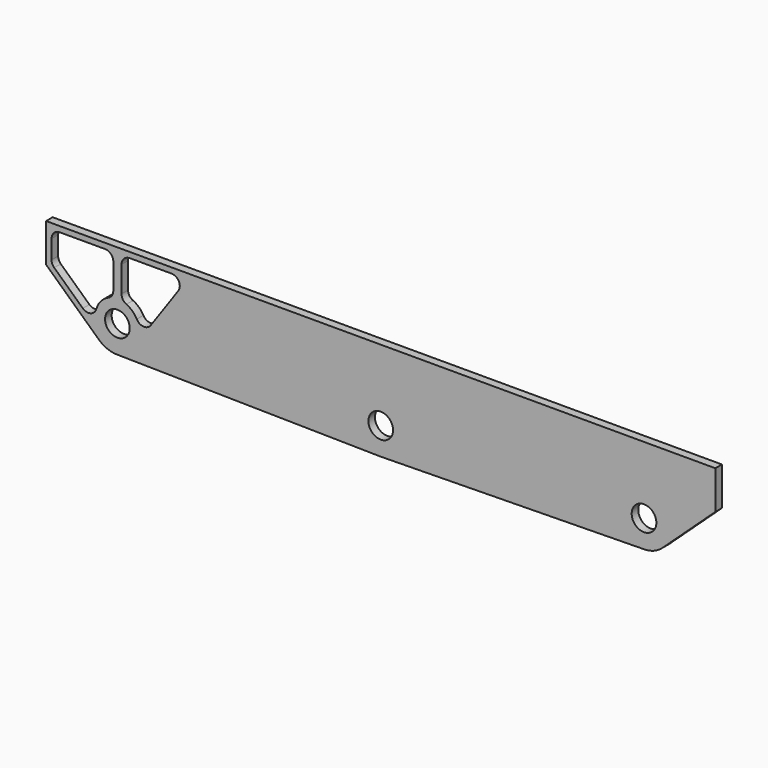
from build123d import *

# Parameters (mm, degrees)
F1_DEPTH = 9.525
F2_R     = 14.2748
F3_DEPTH = 25.4
F4_R     = 9.525


with BuildPart() as f1:
    # F0 (on Front) → F1 (new body)
    with BuildSketch(Plane.XZ):
        with BuildLine():
            Line((387.312791, 82.55), (-387.312791, 82.55))
            Line((-387.312791, 82.55), (-387.312791, 38.1))
            Line((-387.312791, 38.1), (-326.211106, -18.423178))
            ThreePointArc((-326.211106, -18.423178), (-316.509344, -24.556852), (-305.256305, -26.818544))
            Line((-305.256305, -26.818544), (-0.493514, -31.581044))
            ThreePointArc((-0.493514, -31.581044), (0, -31.5849), (0.493514, -31.581044))
            Line((0.493514, -31.581044), (305.256305, -26.818544))
            ThreePointArc((305.256305, -26.818544), (316.509344, -24.556852), (326.211106, -18.423178))
            Line((326.211106, -18.423178), (387.312791, 38.1))
            Line((387.312791, 38.1), (387.312791, 82.55))
        make_face()
    extrude(amount=F1_DEPTH)

    # F2 (on face) → F3 (cut)
    with BuildSketch(Plane.XZ.offset(9.525)):
        with Locations((-304.762791, 4.7625)):
            Circle(F2_R)
        Circle(F2_R)
        with Locations((304.762791, 4.7625)):
            Circle(F2_R)
        with BuildLine():
            Line((-309.525291, 76.2), (-380.962791, 76.2))
            Line((-380.962791, 76.2), (-380.962791, 40.876167))
            Line((-380.962791, 40.876167), (-324.021477, -11.798388))
            ThreePointArc((-324.021477, -11.798388), (-328.742633, 13.136695), (-309.525291, 29.712021))
            Line((-309.525291, 29.712021), (-309.525291, 76.2))
        make_face()
        with BuildLine():
            Line((-300.000291, 76.2), (-300.000291, 29.712021))
            ThreePointArc((-300.000291, 29.712021), (-281.230857, 14.323259), (-283.948798, -9.795581))
            Line((-283.948798, -9.795581), (-223.800291, 76.2))
            Line((-223.800291, 76.2), (-300.000291, 76.2))
        make_face()
    extrude(amount=-F3_DEPTH, mode=Mode.SUBTRACT)

    # F4
    f4_edges = [f1.edges().sort_by_distance(p)[0] for p in [
        (-300.000291, -4.7625, 29.712021),
        (-300.000291, -4.7625, 76.2),
        (-223.800291, -4.7625, 76.2),
        (-283.948798, -4.7625, -9.795581),
        (-309.525291, -4.7625, 29.712021),
        (-324.021477, -4.7625, -11.798388),
        (-380.962791, -4.7625, 40.876167),
        (-380.962791, -4.7625, 76.2),
        (-309.525291, -4.7625, 76.2),
    ]]
    fillet(f4_edges, radius=F4_R)


solid = f1.part
